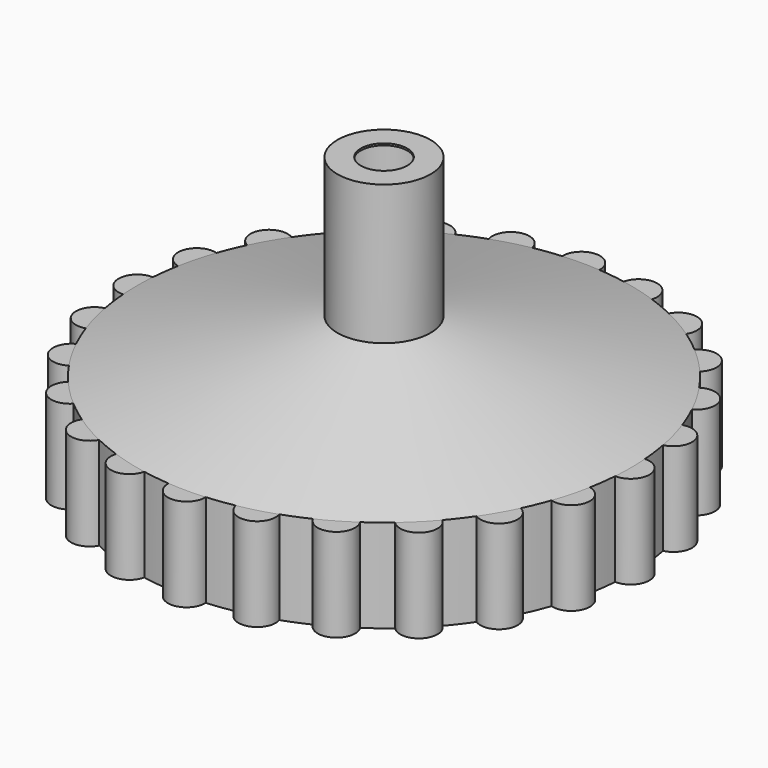
from build123d import *

# Parameters (mm, degrees)
F2_T     = -5.08
F3_R     = 63.5
F4_DEPTH = 781.3280539866
F6_DEPTH = 254
F7_COUNT = 24


with BuildPart() as f1:
    # F0 (on Front) → F1 (revolve)
    with BuildSketch(Plane.XZ):
        Polygon((-673.1, 0), (0, 0), (0, 781.3270539866), (-127, 781.3270539866), (-127, 400.3270539866), (-673.1, 254), align=None)
    revolve(axis=Axis((0, 0, 390.6635269933), (0, 0, -1)))

    # F2
    f2_openings = [f1.faces().sort_by_distance(p)[0] for p in [
        (0, 0, 0),
    ]]
    offset(amount=F2_T, openings=f2_openings, kind=Kind.INTERSECTION)

    # F3 (on Top) → F4 (cut, through all)
    with BuildSketch(Plane.XY):
        Circle(F3_R)
    extrude(amount=F4_DEPTH, mode=Mode.SUBTRACT)

    # F5 (on face) → F6 (join)
    with BuildSketch(Plane(origin=(0, 0, 0), x_dir=(1, 0, 0), z_dir=(0, 0, -1))):
        with BuildLine():
            ThreePointArc((-671.1830188679, -50.7638176592), (-673.1, 0), (-671.1830188679, 50.7638176592))
            ThreePointArc((-671.1830188679, 50.7638176592), (-723.9, 0), (-671.1830188679, -50.7638176592))
        make_face()
    extrude(amount=-F6_DEPTH)

    # F7: F1 ×24 about axis
    f7_axis = Axis((0, 0, 781.3270539866), (0, 0, -1))


with BuildPart() as f1_1:
    add(f1.part)
    for i in range(1, F7_COUNT):
        add(f1.part.rotate(f7_axis, i * 360 / F7_COUNT))


solid = f1_1.part
